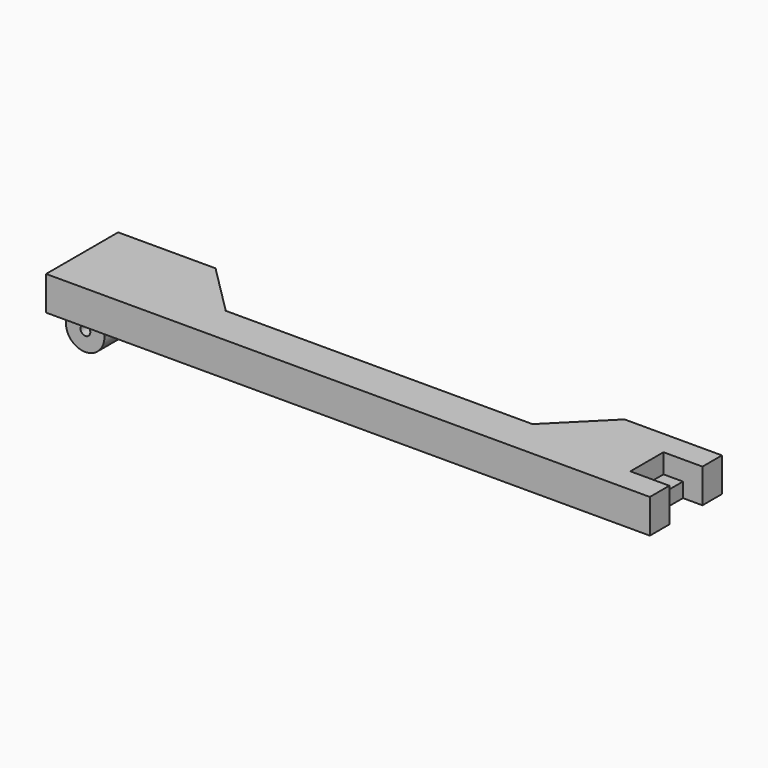
from build123d import *

# Parameters (mm, degrees)
PAD002_DEPTH    = 7
PAD003_DEPTH    = 3
CHAMFER003_SIZE = 1.5
SKETCH009_W     = 7.9
SKETCH009_H     = 8.3
PAD004_DEPTH    = 7.9
FILLET001_R     = 3.94
SKETCH010_R     = 1
HOLE002_DEPTH   = 25
SKETCH016_W     = 8.5
SKETCH016_H     = 7
POCKET003_DEPTH = 4
SKETCH017_W     = 8.5
SKETCH017_H     = 4
POCKET004_DEPTH = 4


with BuildPart() as part:
    # Sketch006 → Pad002 (new body)
    with BuildSketch(Plane.XY.offset(4)):
        Polygon((-62, 2.5), (-62, -16), (62, -16), (62, 2.5), (42, 2.5), (31.5, -8), (-31.5, -8), (-42, 2.5), align=None)
    extrude(amount=PAD002_DEPTH)

    # Sketch007 (on Face9 of Pad002) → Pad003 (join)
    with BuildSketch(Plane(origin=(0, 0, 4), x_dir=(1, 0, 0), z_dir=(0, 0, -1))):
        with BuildLine():
            Line((-31.5, 8), (31.5, 8))
            Line((37.293259, 2.206741), (31.5, 8))
            Line((38.566051, 3.479533), (37.293259, 2.206741))
            Line((32.772792, 9.272792), (38.566051, 3.479533))
            ThreePointArc((32.772792, 9.272792), (32.18883, 9.662983), (31.5, 9.8))
            Line((31.5, 9.8), (-31.5, 9.8))
            ThreePointArc((-31.5, 9.8), (-32.18883, 9.662983), (-32.772792, 9.272792))
            Line((-38.566051, 3.479533), (-32.772792, 9.272792))
            Line((-37.293259, 2.206741), (-38.566051, 3.479533))
            Line((-31.5, 8), (-37.293259, 2.206741))
        make_face()
    extrude(amount=PAD003_DEPTH)

    # Chamfer003
    chamfer003_edges = [part.edges().sort_by_distance(p)[0] for p in [
        (-35.669422, -6.376163, 4),
    ]]
    chamfer(chamfer003_edges, length=CHAMFER003_SIZE)

    # Sketch009 (on Face1 of Chamfer003) → Pad004 (join)
    with BuildSketch(Plane(origin=(0, 0, 4), x_dir=(1, 0, 0), z_dir=(0, 0, -1))):
        with Locations((-58.05, 6.75)):
            Rectangle(SKETCH009_W, SKETCH009_H)
    extrude(amount=PAD004_DEPTH)

    # Fillet001
    fillet001_edges = [part.edges().sort_by_distance(p)[0] for p in [
        (-54.1, -6.75, -3.9),
        (-62, -6.75, -3.9),
    ]]
    fillet(fillet001_edges, radius=FILLET001_R)

    # Sketch010 (on Face1 of Fillet001) → Hole002 (cut)
    with BuildSketch(Plane.XZ.offset(10.9)):
        with Locations((-58, 0)):
            Circle(SKETCH010_R)
    extrude(amount=-HOLE002_DEPTH, mode=Mode.SUBTRACT)

    # Sketch016 (on Face19 of Hole002) → Pocket003 (cut)
    with BuildSketch(Plane.YZ.offset(62)):
        with Locations((-6.75, 7.5)):
            Rectangle(SKETCH016_W, SKETCH016_H)
    extrude(amount=-POCKET003_DEPTH, mode=Mode.SUBTRACT)

    # Sketch017 (on Face21 of Pocket003) → Pocket004 (cut)
    with BuildSketch(Plane.YZ.offset(58)):
        with Locations((-6.75, 9)):
            Rectangle(SKETCH017_W, SKETCH017_H)
    extrude(amount=-POCKET004_DEPTH, mode=Mode.SUBTRACT)


solid = part.part
